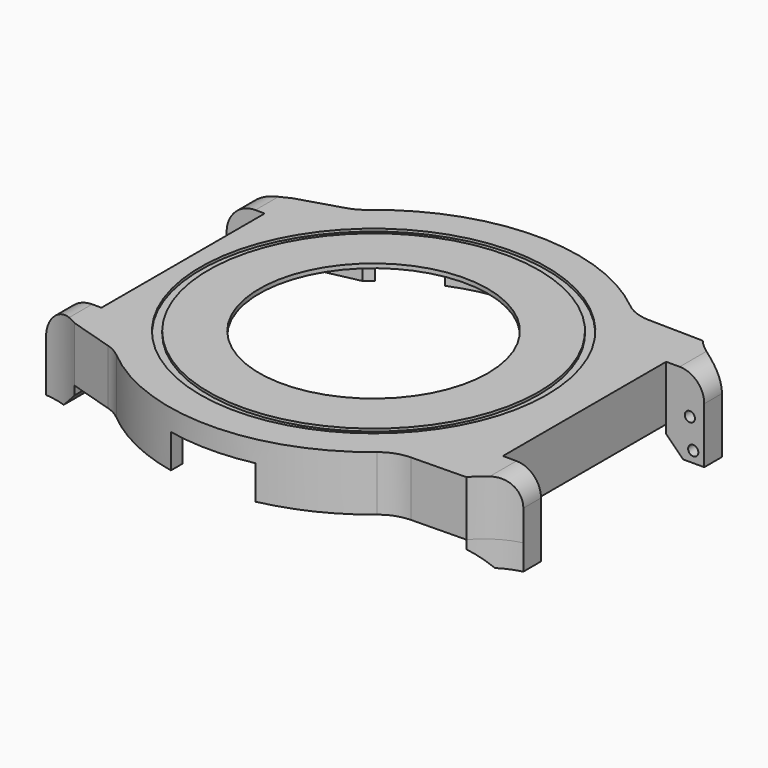
from build123d import *

# Parameters (mm, degrees)
PAD_DEPTH       = 6.5
POCKET_DEPTH    = 6
SKETCH002_R     = 13.5
POCKET001_DEPTH = 1
SKETCH003_W     = 5.4
SKETCH003_H     = 6.5
PAD001_DEPTH    = 4.5
POCKET002_DEPTH = 10
SKETCH008_R     = 0.6
POCKET003_DEPTH = 2
SKETCH009_R     = 0.6
POCKET004_DEPTH = 2
FILLET_R        = 2.9
FILLET001_R     = 2.9
FILLET002_R     = 5
FILLET003_R     = 5
FILLET004_R     = 5
FILLET005_R     = 5
SKETCH010_W     = 3.95
SKETCH010_H     = 6.5
PAD002_DEPTH    = 4.5
POCKET005_DEPTH = 10
SKETCH012_R     = 0.6
POCKET006_DEPTH = 2
SKETCH013_R     = 0.6
POCKET007_DEPTH = 2
FILLET006_R     = 3.4
FILLET007_R     = 3.4
SKETCH014_R     = 20.45
SKETCH014_R_2   = 19.5
POCKET008_DEPTH = 0.3
SKETCH015_R     = 2.2
SKETCH015_R_2   = 0.975
PAD003_DEPTH    = 2
POCKET009_DEPTH = 4
POCKET010_DEPTH = 4
PAD004_DEPTH    = 3
CHAMFER_SIZE    = 2
CHAMFER001_SIZE = 2
CHAMFER002_SIZE = 2
CHAMFER003_SIZE = 2
SKETCH019_R     = 0.6
POCKET011_DEPTH = 2
SKETCH020_R     = 0.6
POCKET012_DEPTH = 2


with BuildPart() as part:
    # Sketch → Pad (new body)
    with BuildSketch(Plane.XY):
        with BuildLine():
            Line((-22.5019915649, 16), (-22.5019915649, -16))
            Line((-22.5019915649, -16), (-16.2858834578, -17.9000000001))
            ThreePointArc((-16.2858834577, -17.9000000001), (0.2206895737, -24.1989937004), (16.6096357576, -17.5999999999))
            Line((16.6096357576, -17.5999999999), (24.9082802252, -17.45))
            Line((24.9082802252, 17.45), (24.9082802252, -17.45))
            Line((16.6096357576, 17.6), (24.9082802252, 17.45))
            ThreePointArc((16.6096357576, 17.6), (0.2206895736, 24.1989937004), (-16.2858834578, 17.9))
            Line((-22.5019915649, 16), (-16.2858834578, 17.9))
        make_face()
    extrude(amount=PAD_DEPTH)

    # Sketch001 → Pocket (cut)
    with BuildSketch(Plane.XY):
        with BuildLine():
            Line((-14.8539557021, 16.9), (-21.2122180433, 15.55))
            Line((-21.2122180433, 15.55), (-21.2122180433, -15.55))
            Line((-21.2122180433, -15.55), (-14.8539557021, -16.9))
            ThreePointArc((-14.8539557021, -16.9), (-0.0760301383, -22.4998715423), (14.739402973, -17))
            Line((14.739402973, -17), (23.6191552218, -16.4))
            Line((23.6191552218, 16.4), (23.6191552218, -16.4))
            Line((14.739402973, 17), (23.6191552218, 16.4))
            ThreePointArc((14.739402973, 17), (-0.0760301383, 22.4998715423), (-14.8539557021, 16.9))
        make_face()
    extrude(amount=POCKET_DEPTH, mode=Mode.SUBTRACT)

    # Sketch002 (on Face19 of Pocket) → Pocket001 (cut)
    with BuildSketch(Plane(origin=(0, 0, 6), x_dir=(1, 0, 0), z_dir=(0, 0, -1))):
        Circle(SKETCH002_R)
    extrude(amount=-POCKET001_DEPTH, mode=Mode.SUBTRACT)

    # Sketch003 (on Face6 of Pocket001) → Pad001 (join)
    with BuildSketch(Plane.YZ.offset(24.9082802252)):
        with Locations((-14.75, 3.25)):
            Rectangle(SKETCH003_W, SKETCH003_H)
        with Locations((14.75, 3.25)):
            Rectangle(SKETCH003_W, SKETCH003_H)
    extrude(amount=PAD001_DEPTH)

    # Sketch006 → Pocket002 (cut)
    with BuildSketch(Plane.XY.offset(6.5)):
        with BuildLine():
            ThreePointArc((24.9082802253, 17.45), (26.9423471239, 15.7065020586), (29.4082802252, 14.6594169812))
            Line((29.4082802252, 17.45), (29.4082802252, 14.6594169812))
            Line((29.4082802252, 17.45), (24.9082802252, 17.45))
        make_face()
        with BuildLine():
            ThreePointArc((29.4082802253, -14.6594169812), (26.9423471239, -15.7065020586), (24.9082802253, -17.45))
            Line((29.4082802252, -17.45), (24.9082802252, -17.45))
            Line((29.4082802253, -14.6594169811), (29.4082802252, -17.45))
        make_face()
    extrude(amount=-POCKET002_DEPTH, mode=Mode.SUBTRACT)

    # Sketch008 (on Face27 of Pocket002) → Pocket003 (cut)
    with BuildSketch(Plane(origin=(0, -12.05, 0), x_dir=(-1, 0, 0), z_dir=(0, 1, 0))):
        with Locations((-27.7082802252, 1.7)):
            Circle(SKETCH008_R)
    extrude(amount=-POCKET003_DEPTH, mode=Mode.SUBTRACT)

    # Sketch009 (on Face26 of Pocket003) → Pocket004 (cut)
    with BuildSketch(Plane.XZ.offset(-12.05)):
        with Locations((27.7082802252, 1.7)):
            Circle(SKETCH009_R)
    extrude(amount=-POCKET004_DEPTH, mode=Mode.SUBTRACT)

    # Fillet
    fillet_edges = [part.edges().sort_by_distance(p)[0] for p in [
        (29.40828, -13.354708, 6.5),
    ]]
    fillet(fillet_edges, radius=FILLET_R)

    # Fillet001
    fillet001_edges = [part.edges().sort_by_distance(p)[0] for p in [
        (29.40828, 13.354708, 6.5),
    ]]
    fillet(fillet001_edges, radius=FILLET001_R)

    # Fillet002
    fillet002_edges = [part.edges().sort_by_distance(p)[0] for p in [
        (16.609636, -17.6, 3.25),
    ]]
    fillet(fillet002_edges, radius=FILLET002_R)

    # Fillet003
    fillet003_edges = [part.edges().sort_by_distance(p)[0] for p in [
        (16.609636, 17.6, 3.25),
    ]]
    fillet(fillet003_edges, radius=FILLET003_R)

    # Fillet004
    fillet004_edges = [part.edges().sort_by_distance(p)[0] for p in [
        (-16.285883, -17.9, 3.25),
    ]]
    fillet(fillet004_edges, radius=FILLET004_R)

    # Fillet005
    fillet005_edges = [part.edges().sort_by_distance(p)[0] for p in [
        (-16.285883, 17.9, 3.25),
    ]]
    fillet(fillet005_edges, radius=FILLET005_R)

    # Sketch010 (on Face4 of Fillet005) → Pad002 (join)
    with BuildSketch(Plane(origin=(-22.5019915649, 0, 0), x_dir=(0, -1, 0), z_dir=(-1, 0, 0))):
        with Locations((-14.025, 3.25)):
            Rectangle(SKETCH010_W, SKETCH010_H)
        with Locations((14.025, 3.25)):
            Rectangle(SKETCH010_W, SKETCH010_H)
    extrude(amount=PAD002_DEPTH)

    # Sketch011 (on Face6 of Pad002) → Pocket005 (cut)
    with BuildSketch(Plane.XY.offset(6.5)):
        with BuildLine():
            ThreePointArc((-27.0019915649, 14.6), (-24.6759937451, 15.0557212933), (-22.5019915649, 16))
            Line((-22.5019915649, 16), (-27.0019915649, 16))
            Line((-27.0019915649, 16), (-27.0019915649, 14.6))
        make_face()
        with BuildLine():
            ThreePointArc((-22.5019915649, -16), (-24.6759937451, -15.0557212933), (-27.0019915649, -14.6))
            Line((-27.0019915649, -14.6), (-27.0019915649, -16))
            Line((-27.0019915649, -16), (-22.5019915649, -16))
        make_face()
    extrude(amount=-POCKET005_DEPTH, mode=Mode.SUBTRACT)

    # Sketch012 (on Face23 of Pocket005) → Pocket006 (cut)
    with BuildSketch(Plane(origin=(0, -12.05, 0), x_dir=(-1, 0, 0), z_dir=(0, 1, 0))):
        with Locations((25.3019915649, 1.7)):
            Circle(SKETCH012_R)
    extrude(amount=-POCKET006_DEPTH, mode=Mode.SUBTRACT)

    # Sketch013 (on Face21 of Pocket006) → Pocket007 (cut)
    with BuildSketch(Plane.XZ.offset(-12.05)):
        with Locations((-25.3019915649, 1.7)):
            Circle(SKETCH013_R)
    extrude(amount=-POCKET007_DEPTH, mode=Mode.SUBTRACT)

    # Fillet006
    fillet006_edges = [part.edges().sort_by_distance(p)[0] for p in [
        (-27.001992, 13.325, 6.5),
    ]]
    fillet(fillet006_edges, radius=FILLET006_R)

    # Fillet007
    fillet007_edges = [part.edges().sort_by_distance(p)[0] for p in [
        (-27.001992, -13.325, 6.5),
    ]]
    fillet(fillet007_edges, radius=FILLET007_R)

    # Sketch014 (on Face4 of Fillet007) → Pocket008 (cut)
    with BuildSketch(Plane.XY.offset(6.5)):
        Circle(SKETCH014_R)
        Circle(SKETCH014_R_2, mode=Mode.SUBTRACT)
    extrude(amount=-POCKET008_DEPTH, mode=Mode.SUBTRACT)

    # Sketch015 (on Face55 of Pocket008) → Pad003 (join)
    with BuildSketch(Plane(origin=(0, 0, 6), x_dir=(1, 0, 0), z_dir=(0, 0, -1))):
        with Locations((-18.42, 13.32)):
            Circle(SKETCH015_R)
        with Locations((-18.42, 13.32)):
            Circle(SKETCH015_R_2, mode=Mode.SUBTRACT)
        with Locations((7.27, 18.56)):
            Circle(SKETCH015_R)
        with Locations((7.27, 18.56)):
            Circle(SKETCH015_R_2, mode=Mode.SUBTRACT)
        with Locations((5.37, -19.79)):
            Circle(SKETCH015_R)
        with Locations((5.37, -19.79)):
            Circle(SKETCH015_R_2, mode=Mode.SUBTRACT)
        with Locations((-18.42, -13.32)):
            Circle(SKETCH015_R)
        with Locations((-18.42, -13.32)):
            Circle(SKETCH015_R_2, mode=Mode.SUBTRACT)
    extrude(amount=PAD003_DEPTH)

    # Sketch016 → Pocket009 (cut)
    with BuildSketch(Plane(origin=(0, 0, 0), x_dir=(-1, 0, 0), z_dir=(0, 0, 1))):
        with BuildLine():
            Line((-5, 23.6778377391), (-5, 21.9374109685))
            ThreePointArc((5, 21.9374109685), (0, 22.5), (-5, 21.9374109685))
            Line((5, 23.6778377391), (5, 21.9374109685))
            ThreePointArc((5, 23.6778377391), (0, 24.2), (-5, 23.6778377391))
        make_face()
    extrude(amount=POCKET009_DEPTH, mode=Mode.SUBTRACT)

    # Sketch017 → Pocket010 (cut)
    with BuildSketch(Plane(origin=(0, 0, 0), x_dir=(-1, 0, 0), z_dir=(0, 0, 1))):
        with BuildLine():
            Line((-3.499984119, -22.2261132717), (-3.5, -23.9455632634))
            ThreePointArc((-3.5, -23.9455632634), (0, -24.2000019575), (3.5, -23.9455632634))
            Line((3.5000158811, -22.2261082701), (3.5, -23.9455632634))
            ThreePointArc((-3.499984119, -22.2261132717), (1.60767e-05, -22.5), (3.5000158811, -22.2261082701))
        make_face()
        with BuildLine():
            ThreePointArc((-13.9498796389, -17.6536358312), (-11.25, -19.4855715851), (-8.3135572795, -20.9077680626))
            Line((-8.3135572795, -20.9077680626), (-8.9416927184, -22.487466094))
            ThreePointArc((-15.0038705449, -18.987466094), (-12.1, -20.9578147716), (-8.9416927184, -22.487466094))
            Line((-13.9498796389, -17.6536358312), (-15.0038705449, -18.987466094))
        make_face()
        with BuildLine():
            ThreePointArc((8.3135572795, -20.9077680626), (11.25, -19.4855715851), (13.9498796389, -17.6536358312))
            Line((13.9498796389, -17.6536358312), (15.0038705449, -18.987466094))
            ThreePointArc((8.9416927184, -22.487466094), (12.1, -20.9578147716), (15.0038705449, -18.987466094))
            Line((8.3135572795, -20.9077680626), (8.9416927184, -22.487466094))
        make_face()
    extrude(amount=POCKET010_DEPTH, mode=Mode.SUBTRACT)

    # Sketch018 (on Face57 of Pocket010) → Pad004 (join)
    with BuildSketch(Plane(origin=(0, 0, 0), x_dir=(1, 0, 0), z_dir=(0, 0, -1))):
        with BuildLine():
            Line((29.4082802252, 14.6594169811), (29.4082802252, 12.05))
            Line((29.4082802252, 12.05), (24.9082802252, 12.05))
            Line((24.9082802252, 12.05), (24.9082802252, 17.45))
            ThreePointArc((24.9082802252, 17.45), (26.9423471239, 15.7065020586), (29.4082802252, 14.6594169811))
        make_face()
        with BuildLine():
            Line((29.4082802252, -12.05), (24.9082802252, -12.05))
            Line((24.9082802252, -17.45), (24.9082802252, -12.05))
            ThreePointArc((29.4082802252, -14.6594169812), (26.9423471239, -15.7065020586), (24.9082802252, -17.45))
            Line((29.4082802252, -12.05), (29.4082802252, -14.6594169812))
        make_face()
        with BuildLine():
            Line((-27.0019915649, 14.6), (-27.0019915649, 12.05))
            Line((-27.0019915649, 12.05), (-22.5019915649, 12.05))
            Line((-22.5019915649, 16), (-22.5019915649, 12.05))
            ThreePointArc((-27.0019915649, 14.6), (-24.6759937451, 15.0557212933), (-22.5019915649, 16))
        make_face()
        with BuildLine():
            Line((-27.0019915649, -12.05), (-22.5019915649, -12.05))
            Line((-22.5019915649, -12.05), (-22.5019915649, -16))
            ThreePointArc((-22.5019915649, -16), (-24.6759937451, -15.0557212933), (-27.0019915649, -14.6))
            Line((-27.0019915649, -12.05), (-27.0019915649, -14.6))
        make_face()
    extrude(amount=PAD004_DEPTH)

    # Chamfer
    chamfer_edges = [part.edges().sort_by_distance(p)[0] for p in [
        (-22.501992, -14.025, -3),
    ]]
    chamfer(chamfer_edges, length=CHAMFER_SIZE)

    # Chamfer001
    chamfer001_edges = [part.edges().sort_by_distance(p)[0] for p in [
        (-22.501992, 14.025, -3),
    ]]
    chamfer(chamfer001_edges, length=CHAMFER001_SIZE)

    # Chamfer002
    chamfer002_edges = [part.edges().sort_by_distance(p)[0] for p in [
        (24.90828, -14.75, -3),
    ]]
    chamfer(chamfer002_edges, length=CHAMFER002_SIZE)

    # Chamfer003
    chamfer003_edges = [part.edges().sort_by_distance(p)[0] for p in [
        (24.90828, 14.75, -3),
    ]]
    chamfer(chamfer003_edges, length=CHAMFER003_SIZE)

    # Sketch019 (on Face5 of Chamfer003) → Pocket011 (cut)
    with BuildSketch(Plane.XZ.offset(-12.05)):
        with Locations((28.1082802252, -1.7)):
            Circle(SKETCH019_R)
        with Locations((-25.7019915649, -1.7)):
            Circle(SKETCH019_R)
    extrude(amount=-POCKET011_DEPTH, mode=Mode.SUBTRACT)

    # Sketch020 (on Face83 of Pocket011) → Pocket012 (cut)
    with BuildSketch(Plane(origin=(0, -12.05, 0), x_dir=(-1, 0, 0), z_dir=(0, 1, 0))):
        with Locations((25.7019915649, -1.7)):
            Circle(SKETCH020_R)
        with Locations((-28.1082802252, -1.7)):
            Circle(SKETCH020_R)
    extrude(amount=-POCKET012_DEPTH, mode=Mode.SUBTRACT)


solid = part.part
